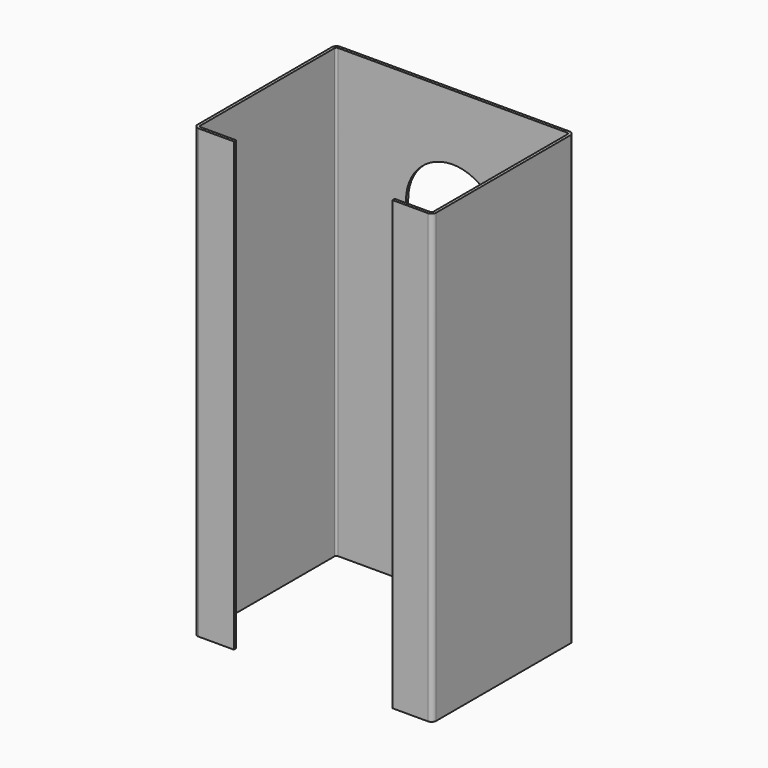
from build123d import *

# Parameters (mm, degrees)
F1_DEPTH = 120
F4_DEPTH = 25


with BuildPart() as f1:
    # F0 (on Top) → F1 (new body, symmetric)
    with BuildSketch(Plane.XY):
        with BuildLine():
            ThreePointArc((-62.5, 45), (-62.207107, 45.707107), (-61.5, 46))
            Line((-61.5, 46), (61.5, 46))
            ThreePointArc((61.5, 46), (62.207107, 45.707107), (62.5, 45))
            Line((62.5, 45), (62.5, -45))
            ThreePointArc((62.5, -45), (62.207107, -45.707107), (61.5, -46))
            Line((61.5, -46), (42.5, -46))
            Line((42.5, -46), (42.5, -47.5))
            Line((42.5, -47.5), (61.5, -47.5))
            ThreePointArc((61.5, -47.5), (63.267767, -46.767767), (64, -45))
            Line((64, -45), (64, 45))
            ThreePointArc((64, 45), (63.267767, 46.767767), (61.5, 47.5))
            Line((61.5, 47.5), (-61.5, 47.5))
            ThreePointArc((-61.5, 47.5), (-63.267767, 46.767767), (-64, 45))
            Line((-64, 45), (-64, -45))
            ThreePointArc((-64, -45), (-63.267767, -46.767767), (-61.5, -47.5))
            Line((-61.5, -47.5), (-42.5, -47.5))
            Line((-42.5, -47.5), (-42.5, -46))
            Line((-42.5, -46), (-61.5, -46))
            ThreePointArc((-61.5, -46), (-62.207107, -45.707107), (-62.5, -45))
            Line((-62.5, -45), (-62.5, 45))
        make_face()
    extrude(amount=F1_DEPTH, both=True)

    # F3 (on face) → F4 (cut)
    with BuildSketch(Plane(origin=(0, 47.5, 0), x_dir=(-1, 0, 0), z_dir=(0, 1, 0))):
        with BuildLine():
            Line((-25, 60), (-25, -60))
            ThreePointArc((-25, -60), (0, -85), (25, -60))
            Line((25, -60), (25, 60))
            ThreePointArc((25, 60), (0, 85), (-25, 60))
        make_face()
    extrude(amount=-F4_DEPTH, mode=Mode.SUBTRACT)


solid = f1.part
